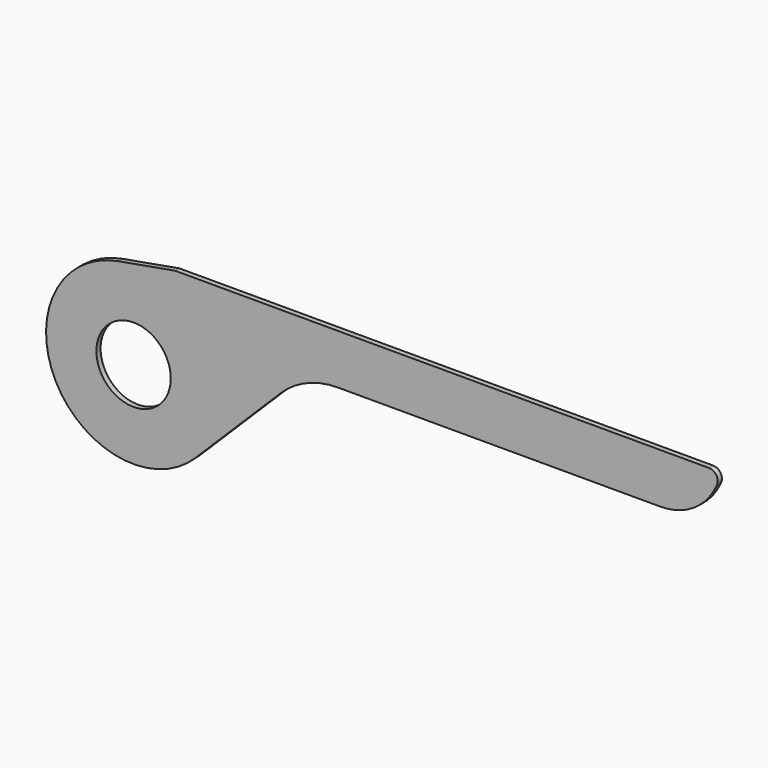
from build123d import *

# Parameters (mm, degrees)
F0_R     = 10.795
F1_DEPTH = 1.524


with BuildPart() as f1:
    # F0 (on Front) → F1 (new body)
    with BuildSketch(Plane.XZ):
        with BuildLine():
            ThreePointArc((-4.439889, 25.008946), (16.315435, 19.467064), (25.4, 0))
            ThreePointArc((25.4, 0), (23.451217, -9.75707), (17.903904, -18.016943))
            Line((17.903904, -18.016943), (42.672, 6.595757))
            ThreePointArc((42.672, 6.595757), (50.317232, 11.678079), (59.32263, 13.462))
            Line((59.32263, 13.462), (152.913683, 13.462))
            ThreePointArc((152.913683, 13.462), (162.418002, 16.215479), (168.97857, 23.623089))
            Line((168.97857, 23.623089), (169.305095, 24.311584))
            ThreePointArc((169.305095, 24.311584), (169.156757, 26.75776), (167.010111, 27.94))
            Line((167.010111, 27.94), (12.070111, 27.94))
            Line((12.070111, 27.94), (-4.439889, 25.008946))
        make_face()
        with BuildLine():
            ThreePointArc((17.903904, -18.016943), (23.451217, -9.75707), (25.4, 0))
            ThreePointArc((25.4, 0), (16.315435, 19.467064), (-4.439889, 25.008946))
            ThreePointArc((-4.439889, 25.008946), (-22.541666, -11.706122), (17.903904, -18.016943))
        make_face()
        Circle(F0_R, mode=Mode.SUBTRACT)
    extrude(amount=F1_DEPTH)


solid = f1.part
